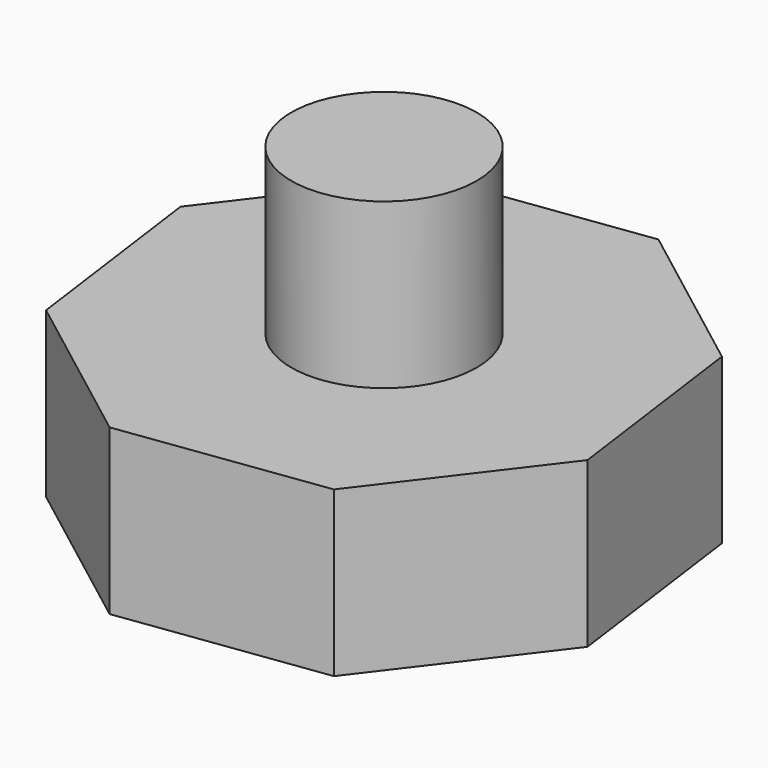
from build123d import *

# Parameters (mm, degrees)
F1_DEPTH = 25.4
F2_R     = 14.326278
F3_DEPTH = 25.4


with BuildPart() as f1:
    # F0 (on Top) → F1 (new body)
    with BuildSketch(Plane.XY):
        Polygon((20.745088, -35.616433), (39.853613, -10.515629), (35.616433, 20.745088), (10.515629, 39.853613), (-20.745088, 35.616433), (-39.853613, 10.515629), (-35.616433, -20.745088), (-10.515629, -39.853613), align=None)
    extrude(amount=F1_DEPTH)

    # F2 (on face) → F3 (join)
    with BuildSketch(Plane.XY.offset(25.4)):
        Circle(F2_R)
    extrude(amount=F3_DEPTH)


solid = f1.part
